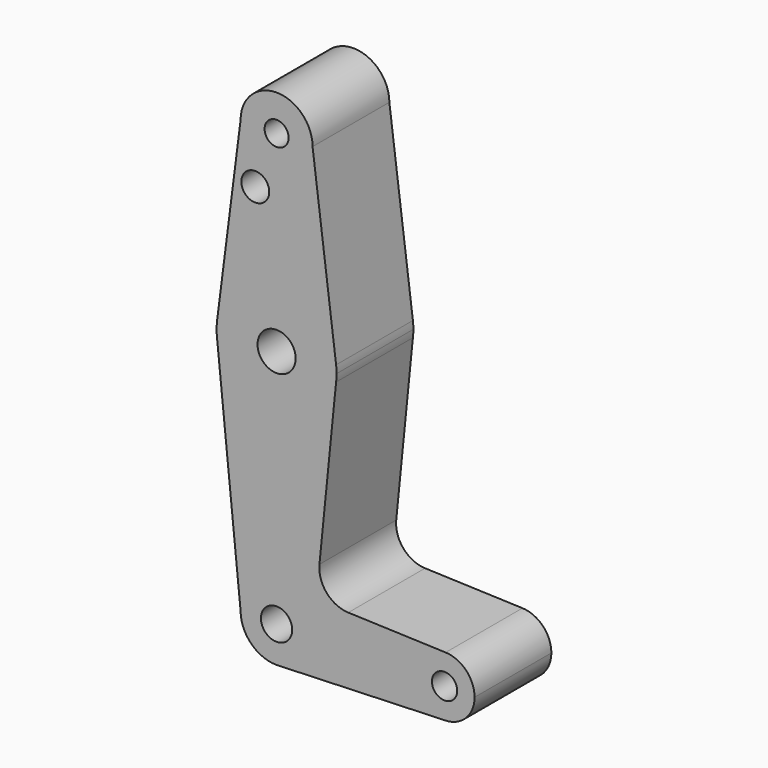
from build123d import *

# Parameters (mm, degrees)
F0_R     = 3.175
F0_R_2   = 3.686252
F0_R_3   = 5.045636
F0_R_4   = 4.135696
F0_R_5   = 3.3448
F1_DEPTH = 25.4


with BuildPart() as f1:
    # F0 (on Front) → F1 (new body)
    with BuildSketch(Plane.XZ):
        with BuildLine():
            ThreePointArc((-52.450832, 60.008334), (-42.925832, 50.483334), (-33.400832, 60.008334))
            ThreePointArc((-33.400832, 60.008334), (-42.925832, 69.533334), (-52.450832, 60.008334))
        make_face()
        with Locations((-42.925832, 60.008334)):
            Circle(F0_R, mode=Mode.SUBTRACT)
        with BuildLine():
            Line((-27.178375, 11.216623), (-33.400832, 60.008334))
            ThreePointArc((-33.400832, 60.008334), (-42.925832, 50.483334), (-52.450832, 60.008334))
            Line((-52.450832, 60.008334), (-58.673289, 11.216623))
            ThreePointArc((-58.673289, 11.216623), (-42.925832, 25.083334), (-27.178375, 11.216623))
        make_face()
        with Locations((-48.560176, 45.733534)):
            Circle(F0_R_2, mode=Mode.SUBTRACT)
        with BuildLine():
            ThreePointArc((-27.050832, 9.208334), (-27.08275, 10.214501), (-27.178375, 11.216623))
            ThreePointArc((-27.178375, 11.216623), (-42.925832, 25.083334), (-58.673289, 11.216623))
            ThreePointArc((-58.673289, 11.216623), (-58.800832, 9.208334), (-58.673289, 7.200044))
            ThreePointArc((-58.673289, 7.200044), (-42.925832, -6.666666), (-27.178375, 7.200044))
            ThreePointArc((-27.178375, 7.200044), (-27.08275, 8.202166), (-27.050832, 9.208334))
        make_face()
        with Locations((-42.925832, 9.208334)):
            Circle(F0_R_3, mode=Mode.SUBTRACT)
        with BuildLine():
            ThreePointArc((-27.178375, 7.200044), (-42.925832, -6.666666), (-58.673289, 7.200044))
            Line((-58.673289, 7.200044), (-52.450832, -54.291666))
            ThreePointArc((-52.450832, -54.291666), (-42.925832, -44.766666), (-33.400832, -54.291666))
            ThreePointArc((-33.400832, -54.291666), (-35.954542, -60.782178), (-42.246341, -63.792399))
            Line((-42.246341, -63.792399), (1.524168, -62.229166))
            ThreePointArc((1.524168, -62.229166), (-6.412075, -54.150441), (1.806574, -46.359192))
            Line((1.806574, -46.359192), (-23.959184, -45.441901))
            ThreePointArc((-23.959184, -45.441901), (-29.666072, -42.724413), (-31.586747, -36.702426))
            Line((-31.586747, -36.702426), (-27.178375, 7.200044))
        make_face()
        with BuildLine():
            ThreePointArc((-33.400832, -54.291666), (-42.925832, -44.766666), (-52.450832, -54.291666))
            ThreePointArc((-52.450832, -54.291666), (-49.661024, -61.026858), (-42.925832, -63.816666))
            Line((-42.925832, -63.816666), (-42.246341, -63.792399))
            ThreePointArc((-42.246341, -63.792399), (-35.954542, -60.782178), (-33.400832, -54.291666))
        make_face()
        with Locations((-42.925832, -54.291666)):
            Circle(F0_R_4, mode=Mode.SUBTRACT)
        with BuildLine():
            Line((-42.246341, -63.792399), (-42.925832, -63.816666))
            ThreePointArc((-42.925832, -63.816666), (-42.58587, -63.810597), (-42.246341, -63.792399))
        make_face()
        with BuildLine():
            ThreePointArc((9.461668, -54.291666), (7.235801, -48.779756), (1.806574, -46.359192))
            ThreePointArc((1.806574, -46.359192), (-6.412075, -54.150441), (1.524168, -62.229166))
            ThreePointArc((1.524168, -62.229166), (7.136828, -59.904326), (9.461668, -54.291666))
        make_face()
        with Locations((1.524168, -54.291666)):
            Circle(F0_R_5, mode=Mode.SUBTRACT)
    extrude(amount=F1_DEPTH)


solid = f1.part
